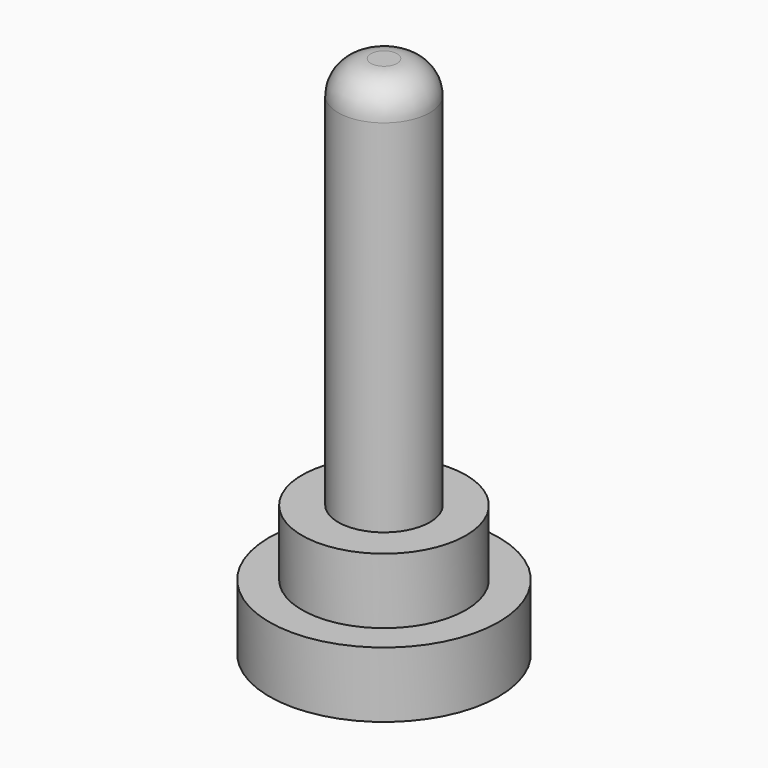
from build123d import *

# Parameters (mm, degrees)
F0_R     = 3.5
F1_DEPTH = 2
F2_R     = 2.5
F3_DEPTH = 2
F4_R     = 1.4
F5_DEPTH = 12
F6_R     = 1


with BuildPart() as f1:
    # F0 (on Top) → F1 (new body)
    with BuildSketch(Plane.XY):
        Circle(F0_R)
    extrude(amount=F1_DEPTH)

    # F2 (on face) → F3 (join)
    with BuildSketch(Plane.XY.offset(2)):
        Circle(F2_R)
    extrude(amount=F3_DEPTH)

    # F4 (on face) → F5 (join)
    with BuildSketch(Plane.XY.offset(4)):
        Circle(F4_R)
    extrude(amount=F5_DEPTH)

    # F6
    f6_edges = [f1.edges().sort_by_distance(p)[0] for p in [
        (-1.4, 0, 16),
    ]]
    fillet(f6_edges, radius=F6_R)


solid = f1.part
